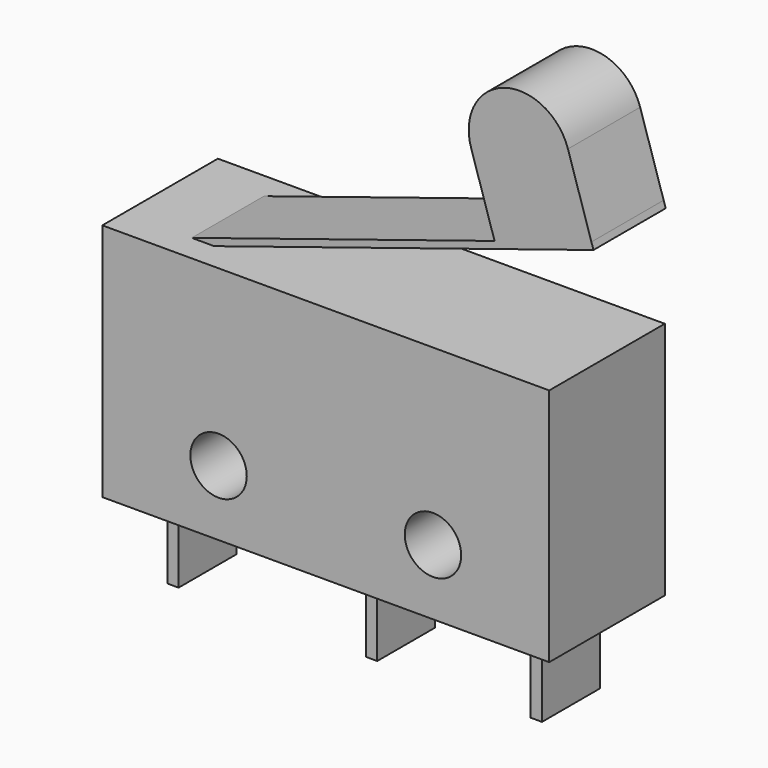
from build123d import *

# Parameters (mm, degrees)
F0_W     = 19.8
F0_H     = 10.6
F0_R     = 1.25
F1_DEPTH = 3.2
F2_W     = 0.5
F2_H     = 3.2
F3_DEPTH = 3.5
F5_DEPTH = 2
F7_DEPTH = 4


with BuildPart() as f1:
    # F0 (on Front) → F1 (new body, symmetric)
    with BuildSketch(Plane.XZ):
        Rectangle(F0_W, F0_H)
        with Locations((-4.75, -2.4)):
            Circle(F0_R, mode=Mode.SUBTRACT)
        with Locations((4.75, -2.4)):
            Circle(F0_R, mode=Mode.SUBTRACT)
    extrude(amount=F1_DEPTH, both=True)

    # F2 (on face) → F3 (join)
    with BuildSketch(Plane(origin=(0, 0, -5.3), x_dir=(1, 0, 0), z_dir=(0, 0, -1))):
        with Locations((-8.05, 0)):
            Rectangle(F2_W, F2_H)
        with Locations((0.75, 0)):
            Rectangle(F2_W, F2_H)
        with Locations((8.05, 0)):
            Rectangle(F2_W, F2_H)
    extrude(amount=F3_DEPTH)

    # F4 (on Front) → F5 (join, symmetric)
    with BuildSketch(Plane.XZ):
        Polygon((10.80955, 10.9), (-6.9, 5.3), (-5.904972, 5.3), (10.9, 10.61396), align=None)
    extrude(amount=F5_DEPTH, both=True)

    # F6 (on face) → F7 (join, through all)
    with BuildSketch(Plane.XZ.offset(2)):
        with BuildLine():
            Line((6.518951, 9.543254), (10.80955, 10.9))
            Line((10.80955, 10.9), (9.769379, 14.189459))
            ThreePointArc((9.769379, 14.189459), (6.945706, 15.656386), (5.478779, 12.832714))
            Line((5.478779, 12.832714), (6.518951, 9.543254))
        make_face()
    extrude(amount=-F7_DEPTH)


solid = f1.part
